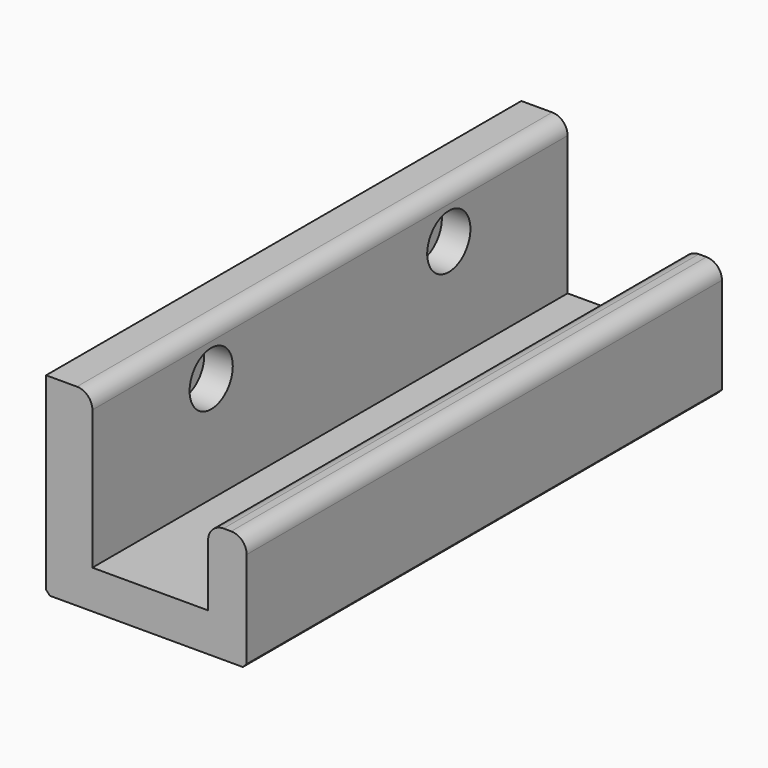
from build123d import *

# Parameters (mm, degrees)
F0_W           = 7.5
F0_H           = 5
F1_DEPTH       = 38.5
F3_D           = 3.8
F3_DEPTH       = 6
F3_CBORE_D     = 7
F3_CBORE_DEPTH = 3.7
F4_R           = 2
F5_SIZE        = 0.5


with BuildPart() as f1:
    # F0 (on Front) → F1 (new body, symmetric)
    with BuildSketch(Plane.XZ):
        with Locations((3.75, 2.5)):
            Rectangle(F0_W, F0_H)
        with Locations((-3.75, 2.5)):
            Rectangle(F0_W, F0_H)
        Polygon((7.5, 5), (7.5, 0), (12.5, 0), (12.5, 15), (7.5, 15), align=None)
        Polygon((-13.5, 0), (-7.5, 0), (-7.5, 5), (-7.5, 25), (-13.5, 25), align=None)
    extrude(amount=F1_DEPTH, both=True)

    # F3
    with Locations(Plane.YZ.offset(-7.5)):
        with Locations((-19.25, 18.75), (19.25, 18.75)):
            CounterBoreHole(F3_D / 2, F3_CBORE_D / 2, F3_CBORE_DEPTH, depth=F3_DEPTH)

    # F4
    f4_edges = [f1.edges().sort_by_distance(p)[0] for p in [
        (12.5, 0, 15),
        (7.5, 0, 15),
        (-7.5, 0, 25),
    ]]
    fillet(f4_edges, radius=F4_R)

    # F5
    f5_edges = [f1.edges().sort_by_distance(p)[0] for p in [
        (12.5, 0, 0),
        (-13.5, 0, 0),
    ]]
    chamfer(f5_edges, length=F5_SIZE)


solid = f1.part
